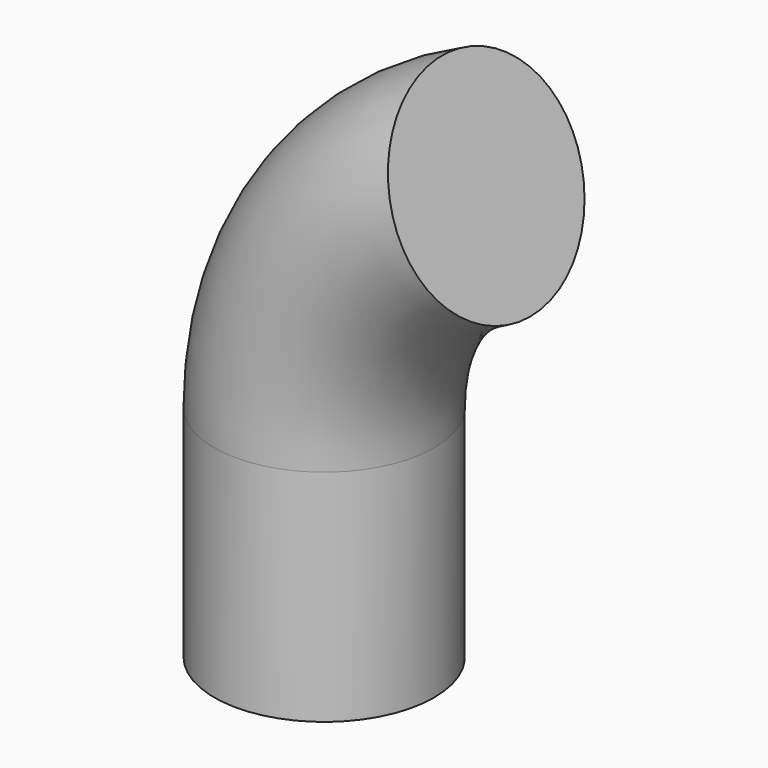
from build123d import *

# Parameters (mm, degrees)
F1_R = 12.7


with BuildPart() as f2:
    # F2: sweep along a path in F0
    with BuildLine(Plane.XZ) as f2_path:
        Line((0, 0), (0, 25.4))
        ThreePointArc((0, 25.4), (5.0966479942, 42.4900491447), (18.7215525657, 53.9968982339))
    # F1 (on Top) → F2 (sweep)
    with BuildSketch(Plane.XY):
        Circle(F1_R)
    sweep(path=f2_path.line)


solid = f2.part
